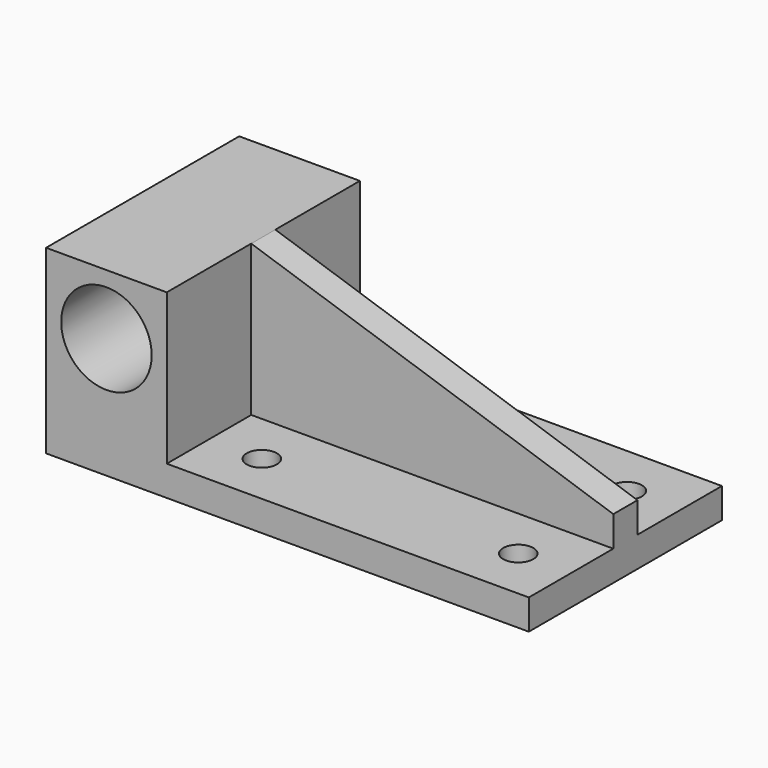
from build123d import *

# Parameters (mm, degrees)
F0_W      = 101.6
F0_H      = 50.8
F1_DEPTH  = 6.35
F2_W      = 25.4
F2_H      = 50.8
F3_DEPTH  = 31.75
F4_R      = 9.525
F5_DEPTH  = 50.801
F6_W      = 76.2
F6_H      = 6.35
F7_DEPTH  = 6.35
F8_DEPTH  = 25.4
F9_SIZE2  = 25.3483661935
F9_SIZE   = 76.2
F10_R     = 3.175
F11_DEPTH = 25.4
F12_R     = 3.175
F13_DEPTH = 25.4


with BuildPart() as f1:
    # F0 (on Top) → F1 (new body)
    with BuildSketch(Plane.XY):
        with Locations((-14.6277205467, -8.5982844889)):
            Rectangle(F0_W, F0_H)
    extrude(amount=F1_DEPTH)

    # F2 (on face) → F3 (join)
    with BuildSketch(Plane.XY.offset(6.35)):
        with Locations((-52.7277205467, -8.5982844889)):
            Rectangle(F2_W, F2_H)
    extrude(amount=F3_DEPTH)

    # F4 (on face) → F5 (cut, through all)
    with BuildSketch(Plane.XZ.offset(33.9982844889)):
        with Locations((-52.7277205467, 25.4)):
            Circle(F4_R)
    extrude(amount=-F5_DEPTH, mode=Mode.SUBTRACT)

    # F6 (on face) → F7 (join)
    with BuildSketch(Plane.XY.offset(6.35)):
        with Locations((-1.9277205467, -8.5982844889)):
            Rectangle(F6_W, F6_H)
    extrude(amount=F7_DEPTH)

    # F8 (add): a face of the model
    f8_faces = [f1.faces().sort_by_distance(p)[0] for p in [
        (-1.9277205467, -8.5982844889, 12.7),
    ]]
    extrude(f8_faces, amount=F8_DEPTH)

    # F9
    f9_edges = [f1.edges().sort_by_distance(p)[0] for p in [
        (36.172279, -8.598284, 38.1),
    ]]
    f9_side = f1.faces().sort_by_distance((-38.873175, -8.598284, 38.1))[0]
    chamfer(f9_edges, length=F9_SIZE, length2=F9_SIZE2, reference=f9_side)

    # F10 (on face) → F11 (cut)
    with BuildSketch(Plane.XY.offset(6.35)):
        with Locations((25.0597794533, 5.6892155111)):
            Circle(F10_R)
        with Locations((-28.9152205467, 5.6892155111)):
            Circle(F10_R)
    extrude(amount=-F11_DEPTH, mode=Mode.SUBTRACT)

    # F12 (on face) → F13 (cut)
    with BuildSketch(Plane.XY.offset(6.35)):
        with Locations((-28.9152205467, -22.8857844889)):
            Circle(F12_R)
        with Locations((25.0597794533, -22.8857844889)):
            Circle(F12_R)
    extrude(amount=-F13_DEPTH, mode=Mode.SUBTRACT)


solid = f1.part
